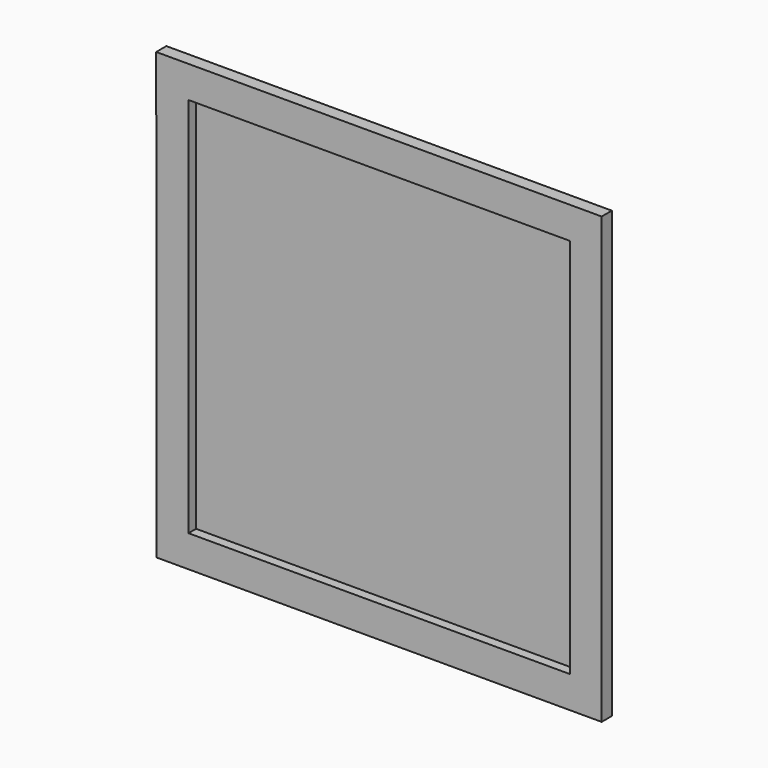
from build123d import *

# Parameters (mm, degrees)
F0_W     = 3048
F0_H     = 3048
F1_DEPTH = 101.6
F2_DEPTH = 76.2


with BuildPart() as f1:
    # F0 (on Front) → F1 (new body)
    with BuildSketch(Plane.XZ):
        Polygon((2811.687519, -3009.017731), (2815.866784, -6565.017731), (6371.866784, -6565.017731), (6371.866784, -3009.017731), (6367.687519, -3009.017731), align=None)
        with Locations((4593.866784, -4787.017731)):
            Rectangle(F0_W, F0_H, mode=Mode.SUBTRACT)
        with Locations((4593.866784, -4787.017731)):
            Rectangle(F0_W, F0_H)
    extrude(amount=-F1_DEPTH)

    # F0 (on Front) → F2 (cut)
    with BuildSketch(Plane.XZ):
        with Locations((4593.866784, -4787.017731)):
            Rectangle(F0_W, F0_H)
    extrude(amount=-F2_DEPTH, mode=Mode.SUBTRACT)


solid = f1.part
